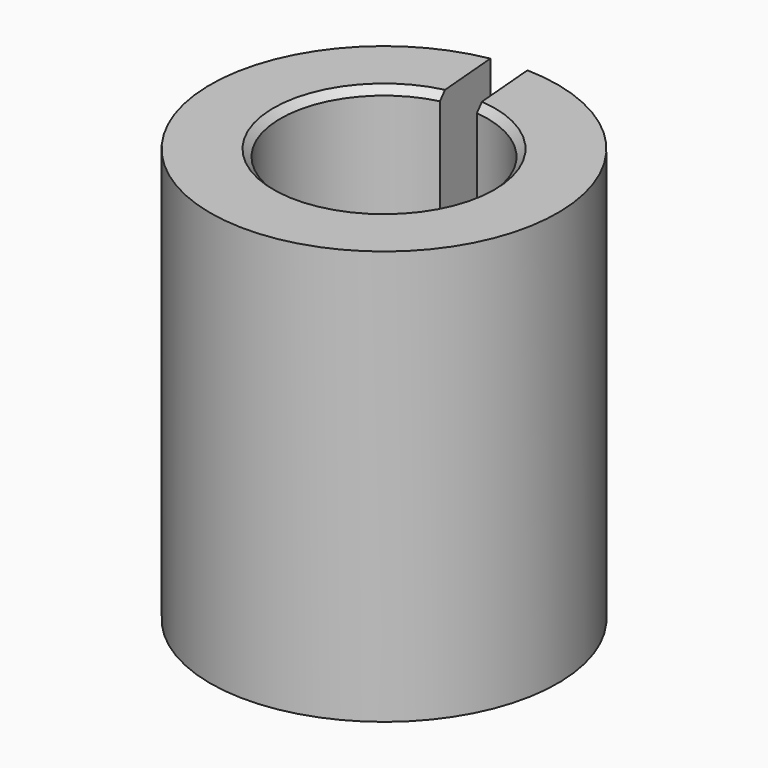
from build123d import *

# Parameters (mm, degrees)
F1_DEPTH = 11.8
F2_SIZE  = 0.2


with BuildPart() as f1:
    # F0 (on Top) → F1 (new body)
    with BuildSketch(Plane.XY):
        with BuildLine():
            Line((-0.69807, 2.866217), (-0.868421, 4.873227))
            ThreePointArc((-0.868421, 4.873227), (0.371734, -4.936022), (0.128755, 4.948325))
            Line((0.128755, 4.948325), (0.299665, 2.93474))
            ThreePointArc((0.299665, 2.93474), (0.202128, -2.943067), (-0.69807, 2.866217))
        make_face()
    extrude(amount=F1_DEPTH)

    # F2
    f2_edges = [f1.edges().sort_by_distance(p)[0] for p in [
        (0.202128, -2.943067, 11.8),
    ]]
    chamfer(f2_edges, length=F2_SIZE)


solid = f1.part
